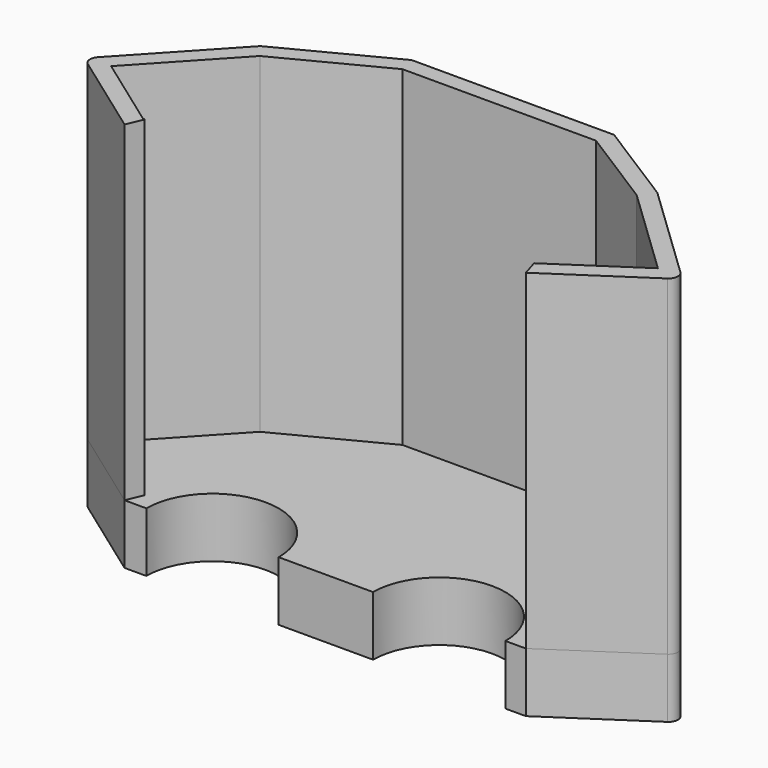
from build123d import *

# Parameters (mm, degrees)
F1_DEPTH = 22.86
F3_DEPTH = 127
F4_W     = 29.427899497
F4_H     = 79.1037733698
F5_DEPTH = 25.4


with BuildPart() as f1:
    # F0 (on Top) → F1 (new body)
    with BuildSketch(Plane.XY):
        with BuildLine():
            Line((-109.2416586881, -12.3302117755), (-76.2172043324, -36.0417403281))
            Line((-76.2172043324, -36.0417403281), (-67.8515716732, -36.0417403281))
            ThreePointArc((-67.8515716732, -36.0417403281), (-42.4515716732, -10.6417403281), (-17.0515716732, -36.0417403281))
            Line((-17.0515716732, -36.0417403281), (19.194001025, -36.0417403281))
            ThreePointArc((19.194001025, -36.0417403281), (44.594001025, -10.6417403281), (69.994001025, -36.0417403281))
            Line((69.994001025, -36.0417403281), (76.1827956676, -36.0417403281))
            Line((76.1827956676, -36.0417403281), (77.8310745955, -36.0417403281))
            Line((77.8310745955, -36.0417403281), (113.3208680851, -12.4382194949))
            ThreePointArc((113.3208680851, -12.4382194949), (114.9144029238, -9.7550934328), (113.8150775152, -6.8344766497))
            Line((113.8150775152, -6.8344766497), (76.1827956676, 29.1366521269))
            Line((76.1827956676, 29.1366521269), (42.5686240196, 50.392139703))
            Line((42.5686240196, 50.392139703), (-35.1417586207, 50.392139703))
            Line((-35.1417586207, 50.392139703), (-76.2172043324, 29.1366521269))
            Line((-76.2172043324, 29.1366521269), (-109.778551859, -6.9506209081))
            ThreePointArc((-109.778551859, -6.9506209081), (-110.725225663, -9.761687616), (-109.2416586881, -12.3302117755))
        make_face()
        with BuildLine():
            Line((-109.2416586881, -12.3302117755), (-76.2172043324, -36.0417403281))
            Line((-76.2172043324, -36.0417403281), (-67.8515716732, -36.0417403281))
            ThreePointArc((-67.8515716732, -36.0417403281), (-42.4515716732, -10.6417403281), (-17.0515716732, -36.0417403281))
            Line((-17.0515716732, -36.0417403281), (19.194001025, -36.0417403281))
            ThreePointArc((19.194001025, -36.0417403281), (44.594001025, -10.6417403281), (69.994001025, -36.0417403281))
            Line((69.994001025, -36.0417403281), (76.1827956676, -36.0417403281))
            Line((76.1827956676, -36.0417403281), (77.8310745955, -36.0417403281))
            Line((77.8310745955, -36.0417403281), (113.3208680851, -12.4382194949))
            ThreePointArc((113.3208680851, -12.4382194949), (114.9144029238, -9.7550934328), (113.8150775152, -6.8344766497))
            Line((113.8150775152, -6.8344766497), (76.1827956676, 29.1366521269))
            Line((76.1827956676, 29.1366521269), (42.5686240196, 50.392139703))
            Line((42.5686240196, 50.392139703), (-35.1417586207, 50.392139703))
            Line((-35.1417586207, 50.392139703), (-76.2172043324, 29.1366521269))
            Line((-76.2172043324, 29.1366521269), (-109.778551859, -6.9506209081))
            ThreePointArc((-109.778551859, -6.9506209081), (-110.725225663, -9.761687616), (-109.2416586881, -12.3302117755))
        make_face()
    extrude(amount=F1_DEPTH)


with BuildPart() as f3:
    # F2 (on face) → F3 (new body)
    with BuildSketch(Plane.XY.offset(22.86)):
        with BuildLine():
            Line((-76.2172043324, 29.1366521269), (-109.778551859, -6.9506209081))
            ThreePointArc((-109.778551859, -6.9506209081), (-110.725225663, -9.761687616), (-109.2416586881, -12.3302117755))
            Line((-109.2416586881, -12.3302117755), (-76.2172043324, -36.0417403281))
            Line((-76.2172043324, -36.0417403281), (-73.5600914065, -29.6917403281))
            Line((-73.5600914065, -29.6917403281), (-74.1736543222, -29.6917403281))
            Line((-74.1736543222, -29.6917403281), (-103.0045907292, -8.9911538944))
            Line((-103.0045907292, -8.9911538944), (-72.3187850065, 24.0041556216))
            Line((-72.3187850065, 24.0041556216), (-33.5961198895, 44.042139703))
            Line((-33.5961198895, 44.042139703), (40.7293845442, 44.042139703))
            Line((40.7293845442, 44.042139703), (72.2533122735, 24.1083908897))
            Line((72.2533122735, 24.1083908897), (106.9453496251, -9.0522807952))
            Line((106.9453496251, -9.0522807952), (75.9122608866, -29.6917403281))
            Line((75.9122608866, -29.6917403281), (77.8310745955, -36.0417403281))
            Line((77.8310745955, -36.0417403281), (113.3208680851, -12.4382194949))
            ThreePointArc((113.3208680851, -12.4382194949), (114.9144029238, -9.7550934328), (113.8150775152, -6.8344766497))
            Line((113.8150775152, -6.8344766497), (76.1827956676, 29.1366521269))
            Line((76.1827956676, 29.1366521269), (42.5686240196, 50.392139703))
            Line((42.5686240196, 50.392139703), (-35.1417586207, 50.392139703))
            Line((-35.1417586207, 50.392139703), (-76.2172043324, 29.1366521269))
        make_face()
    extrude(amount=F3_DEPTH)

    # F4 (on face) → F5 (cut)
    with BuildSketch(Plane(origin=(34.9222309204, 55.2272376856, 0), x_dir=(-0.8451994744, 0.5344509785, 0), z_dir=(0.5344509785, 0.8451994744, 0))):
        with Locations((-23.7608000252, 62.4118866849)):
            Rectangle(F4_W, F4_H)
    extrude(amount=-F5_DEPTH, mode=Mode.SUBTRACT)


solid = Compound([f1.part, f3.part])
